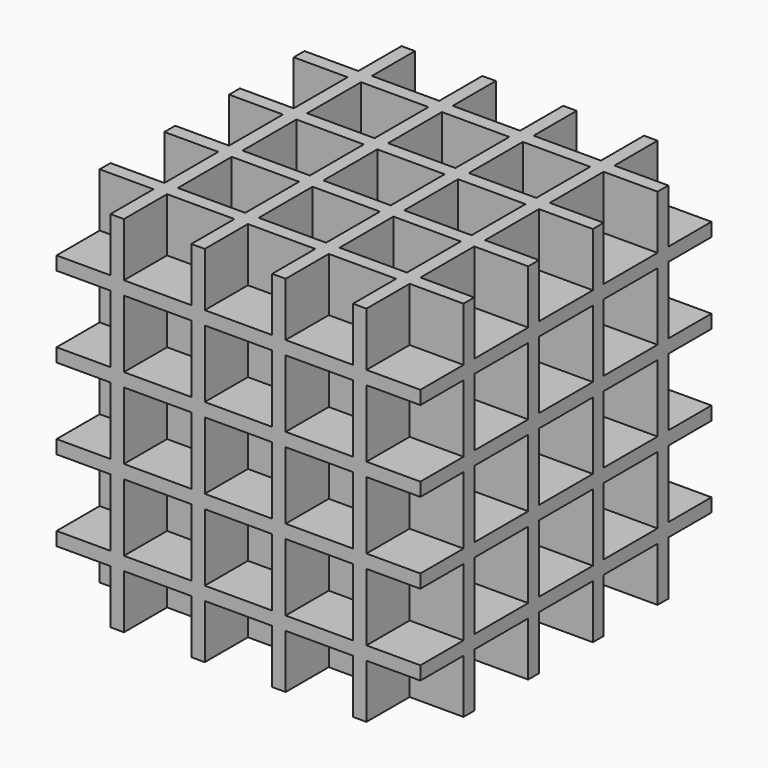
from build123d import *

# Parameters (mm, degrees)
BOX004_W         = 10
BOX004_H         = 10
BOX004_DEPTH     = 10
ARRAY002_X_COUNT = 5
ARRAY002_X_PITCH = 12
ARRAY002_Y_COUNT = 5
ARRAY002_Y_PITCH = 12
ARRAY002_Z_COUNT = 5
ARRAY002_Z_PITCH = 12
BOX005_W         = 54
BOX005_H         = 54
BOX005_DEPTH     = 54


with BuildPart() as array002:
    # Box004 → Box004 (new body)
    with BuildSketch(Plane.XY):
        with Locations((5, 5)):
            Rectangle(BOX004_W, BOX004_H)
    extrude(amount=BOX004_DEPTH)

    # Array002 X: Array002 ×5


with BuildPart() as array002_1:
    add(array002.part)
    with Locations(*[(i * ARRAY002_X_PITCH, 0, 0) for i in range(1, ARRAY002_X_COUNT)]):
        add(array002.part)

    # Array002 Y: Array002 ×5


with BuildPart() as array002_2:
    add(array002_1.part)
    with Locations(*[(0, i * ARRAY002_Y_PITCH, 0) for i in range(1, ARRAY002_Y_COUNT)]):
        add(array002_1.part)

    # Array002 Z: Array002 ×5


with BuildPart() as array002_3:
    add(array002_2.part)
    with Locations(*[(0, 0, i * ARRAY002_Z_PITCH) for i in range(1, ARRAY002_Z_COUNT)]):
        add(array002_2.part)


with BuildPart() as cut002:
    # Box005 → Box005 (new body)
    with BuildSketch(Plane(origin=(2, 2, 2), x_dir=(1, 0, 0), z_dir=(0, 0, 1))):
        with Locations((27, 27)):
            Rectangle(BOX005_W, BOX005_H)
    extrude(amount=BOX005_DEPTH)

    # Cut002: cut Array002
    add(array002_3.part, mode=Mode.SUBTRACT)


solid = cut002.part
